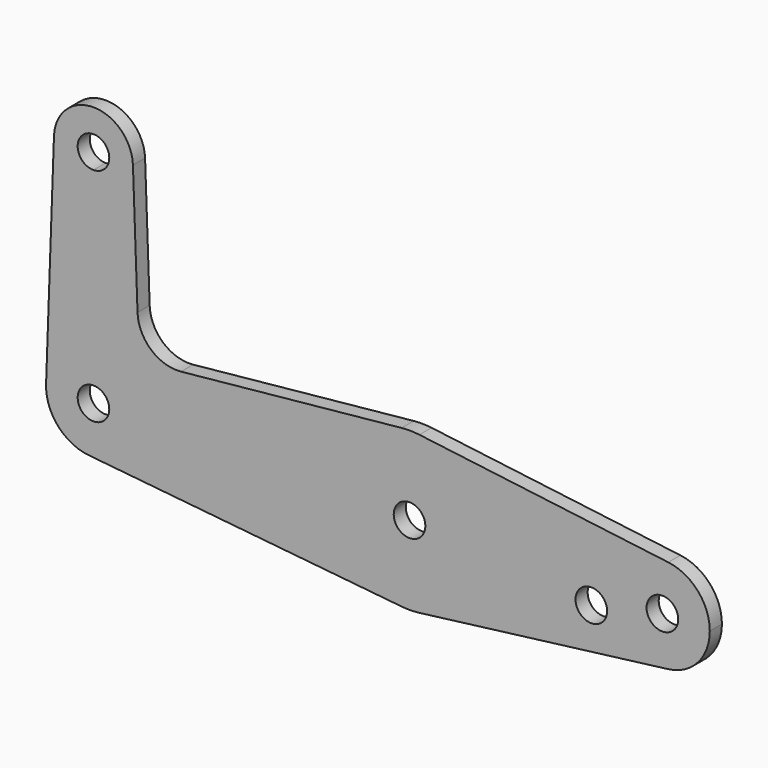
from build123d import *

# Parameters (mm, degrees)
F1_DEPTH = 3.048


with BuildPart() as f1:
    # F0 (on Front) → F1 (new body)
    with BuildSketch(Plane.XZ):
        with BuildLine():
            ThreePointArc((65.484375, -15.7504882737), (75.40625, -10.5003255158), (79.375, 0))
            Line((79.375, 0), (66.675, 0))
            ThreePointArc((66.675, 0), (63.5, -3.175), (60.325, 0))
            Line((60.325, 0), (47.625, 0))
            ThreePointArc((47.625, 0), (51.7267849017, -10.6492737428), (61.9125, -15.7954255641))
            ThreePointArc((61.9125, -15.7954255641), (63.6997054867, -15.8737438155), (65.484375, -15.7504882737))
        make_face()
        with BuildLine():
            ThreePointArc((65.484375, 15.7504882737), (75.40625, 10.5003255158), (79.375, 0))
            Line((79.375, 0), (100.0252, 0))
            Line((100.0252, 0), (104.775, 0))
            ThreePointArc((104.775, 0), (107.9998046905, 7.14375), (115.490625, 9.4502929642))
            Line((115.490625, 9.4502929642), (65.484375, 15.7504882737))
        make_face()
        with BuildLine():
            Line((66.675, 0), (79.375, 0))
            ThreePointArc((79.375, 0), (75.40625, 10.5003255158), (65.484375, 15.7504882737))
            ThreePointArc((65.484375, 15.7504882737), (63.6997054867, 15.8737438155), (61.9125, 15.7954255641))
            ThreePointArc((61.9125, 15.7954255641), (51.7267849017, 10.6492737428), (47.625, 0))
            Line((47.625, 0), (60.325, 0))
            ThreePointArc((60.325, 0), (63.5, 3.175), (66.675, 0))
        make_face()
        with BuildLine():
            Line((100.0252, 0), (79.375, 0))
            ThreePointArc((79.375, 0), (75.40625, -10.5003255158), (65.484375, -15.7504882737))
            Line((65.484375, -15.7504882737), (115.490625, -9.4502929642))
            ThreePointArc((115.490625, -9.4502929642), (107.9998046905, -7.14375), (104.775, 0))
            Line((104.775, 0), (100.0252, 0))
        make_face()
        with BuildLine():
            ThreePointArc((103.2002, -3.175), (97.7801359697, -5.4200640303), (100.0252, 0))
            ThreePointArc((100.0252, 0), (102.2702640303, -0.9299359697), (103.2002, -3.175))
        make_face(mode=Mode.SUBTRACT)
        with BuildLine():
            ThreePointArc((115.490625, 9.4502929642), (107.9998046905, 7.14375), (104.775, 0))
            ThreePointArc((104.775, 0), (107.9998046905, -7.14375), (115.490625, -9.4502929642))
            ThreePointArc((115.490625, -9.4502929642), (121.44375, -6.3001953095), (123.825, 0))
            ThreePointArc((123.825, 0), (121.44375, 6.3001953095), (115.490625, 9.4502929642))
        make_face()
        with BuildLine():
            ThreePointArc((117.475, 0), (114.3, -3.175), (111.125, 0))
            ThreePointArc((111.125, 0), (114.3, 3.175), (117.475, 0))
        make_face(mode=Mode.SUBTRACT)
        with BuildLine():
            ThreePointArc((47.625, 0), (51.7267849017, 10.6492737428), (61.9125, 15.7954255641))
            Line((61.9125, 15.7954255641), (17.5933818124, 11.3411865923))
            ThreePointArc((17.5933818124, 11.3411865923), (11.5713591498, 13.2611998974), (8.8532337108, 18.9676000005))
            Line((8.8532337108, 18.9676000005), (7.9324362036, 44.7334821429))
            ThreePointArc((7.9324362036, 44.7334821429), (7.9362339499, 44.5917636831), (7.9375, 44.45))
            ThreePointArc((7.9375, 44.45), (5.6126600757, 38.8373399243), (0, 36.5125))
            Line((0, 36.5125), (0, 9.525))
            ThreePointArc((0, 9.525), (6.7351920908, 6.7351920908), (9.525, 0))
            Line((9.525, 0), (47.625, 0))
        make_face()
        with BuildLine():
            Line((-0.9525, -9.4772553384), (61.9125, -15.7954255641))
            ThreePointArc((61.9125, -15.7954255641), (51.7267849017, -10.6492737428), (47.625, 0))
            Line((47.625, 0), (9.525, 0))
            ThreePointArc((9.525, 0), (6.3895642457, -7.063929059), (-0.9525, -9.4772553384))
        make_face()
        with BuildLine():
            ThreePointArc((-9.5189234444, 0.3401785714), (-7.1769199091, -6.2623833816), (-0.9525, -9.4772553384))
            ThreePointArc((-0.9525, -9.4772553384), (6.3895642457, -7.063929059), (9.525, 0))
            Line((9.525, 0), (3.175, 0))
            ThreePointArc((3.175, 0), (-2.2450640303, -2.2450640303), (0, 3.175))
            Line((0, 3.175), (0, 9.525))
            ThreePointArc((0, 9.525), (-6.6138273378, 6.8544082857), (-9.5189234444, 0.3401785714))
        make_face()
        with BuildLine():
            Line((-7.9324362036, 44.7334821429), (-9.5189234444, 0.3401785714))
            ThreePointArc((-9.5189234444, 0.3401785714), (-6.6138273378, 6.8544082857), (0, 9.525))
            Line((0, 9.525), (0, 36.5125))
            ThreePointArc((0, 36.5125), (-5.7120069047, 38.9384772185), (-7.9324362036, 44.7334821429))
        make_face()
        with BuildLine():
            ThreePointArc((7.9375, 44.45), (7.9362339499, 44.5917636831), (7.9324362036, 44.7334821429))
            ThreePointArc((7.9324362036, 44.7334821429), (0, 52.3875), (-7.9324362036, 44.7334821429))
            ThreePointArc((-7.9324362036, 44.7334821429), (-5.7120069047, 38.9384772185), (0, 36.5125))
            ThreePointArc((0, 36.5125), (5.6126600757, 38.8373399243), (7.9375, 44.45))
        make_face()
        with BuildLine():
            ThreePointArc((3.175, 44.45), (2.2450640303, 42.2049359697), (0, 41.275))
            ThreePointArc((0, 41.275), (-2.2450640303, 46.6950640303), (3.175, 44.45))
        make_face(mode=Mode.SUBTRACT)
        with BuildLine():
            Line((3.175, 0), (9.525, 0))
            ThreePointArc((9.525, 0), (6.7351920908, 6.7351920908), (0, 9.525))
            Line((0, 9.525), (0, 3.175))
            ThreePointArc((0, 3.175), (2.2450640303, 2.2450640303), (3.175, 0))
        make_face()
    extrude(amount=F1_DEPTH)


solid = f1.part
